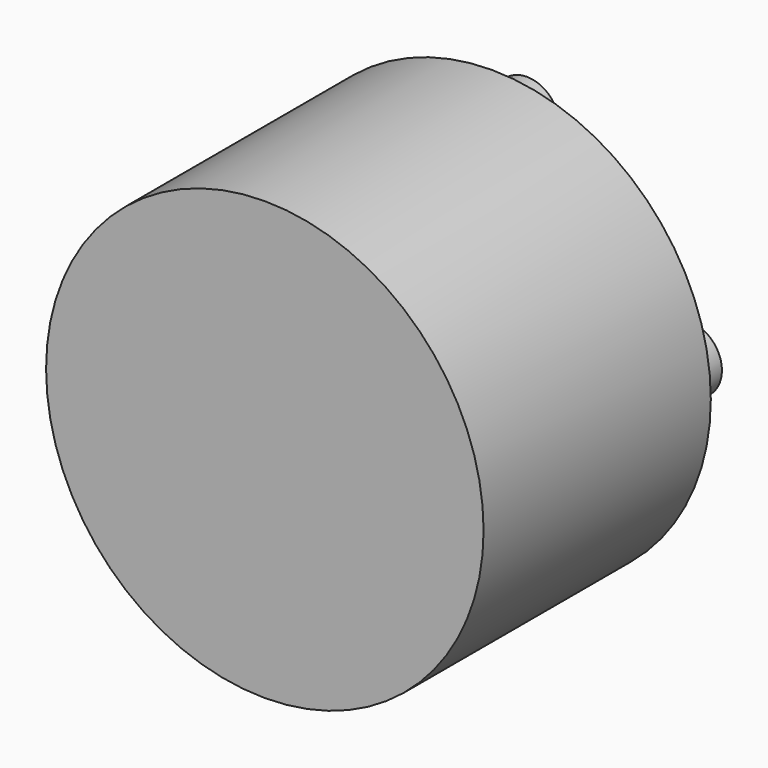
from build123d import *

# Parameters (mm, degrees)
F2_R     = 115
F3_DEPTH = 20


with BuildPart() as f1:
    # F0 (on Right) → F1 (revolve)
    with BuildSketch(Plane.YZ):
        Polygon((-75.25, 100.5), (-75.25, 0), (122.75, 0), (122.75, 10), (75.25, 10), (75.25, 100.5), align=None)
    revolve(axis=Axis((0, 23.75, 0), (0, 1, 0)))

    # F2 (on face) → F3 (cut)
    with BuildSketch(Plane(origin=(0, 75.25, 0), x_dir=(-1, 0, 0), z_dir=(0, 1, 0))):
        Circle(F2_R)
        with BuildLine():
            ThreePointArc((-15, 74.6), (0, 89.6), (15, 74.6))
            Line((15, 74.6), (15, 59.6))
            ThreePointArc((15, 59.6), (43.457796, 43.457796), (59.6, 15))
            Line((59.6, 15), (74.6, 15))
            ThreePointArc((74.6, 15), (89.6, 0), (74.6, -15))
            Line((74.6, -15), (59.6, -15))
            ThreePointArc((59.6, -15), (43.457796, -43.457796), (15, -59.6))
            Line((15, -59.6), (15, -74.6))
            ThreePointArc((15, -74.6), (0, -89.6), (-15, -74.6))
            Line((-15, -74.6), (-15, -59.6))
            ThreePointArc((-15, -59.6), (-43.457796, -43.457796), (-59.6, -15))
            Line((-59.6, -15), (-74.6, -15))
            ThreePointArc((-74.6, -15), (-89.6, 0), (-74.6, 15))
            Line((-74.6, 15), (-59.6, 15))
            ThreePointArc((-59.6, 15), (-43.457796, 43.457796), (-15, 59.6))
            Line((-15, 59.6), (-15, 74.6))
        make_face(mode=Mode.SUBTRACT)
    extrude(amount=-F3_DEPTH, mode=Mode.SUBTRACT)


solid = f1.part
